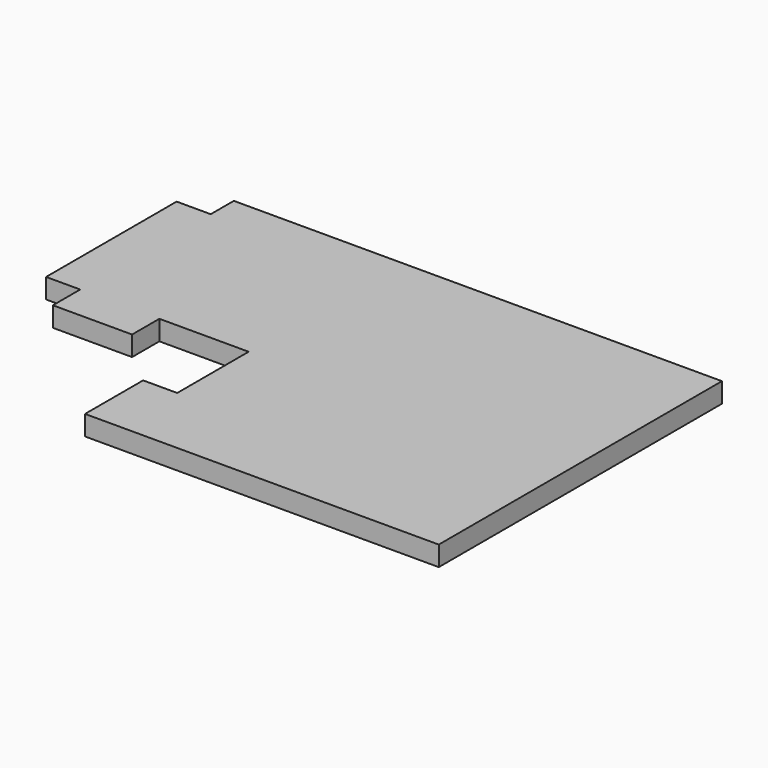
from build123d import *

# Parameters (mm, degrees)
EXTRUDE_DEPTH = 5.9944


with BuildPart() as part:
    # Sketch → Extrude (new body)
    with BuildSketch(Plane.XY):
        Polygon((-157.48, -8.7122), (-147.193, -8.7122), (-147.193, 0), (0, 0), (0, -106.7308), (-106.68, -106.7308), (-106.68, -84.836), (-96.393, -84.836), (-96.393, -57.912), (-123.317, -57.912), (-123.317, -68.199), (-147.193, -68.199), (-147.193, -57.912), (-157.48, -57.912), align=None)
    extrude(amount=EXTRUDE_DEPTH)


solid = part.part
